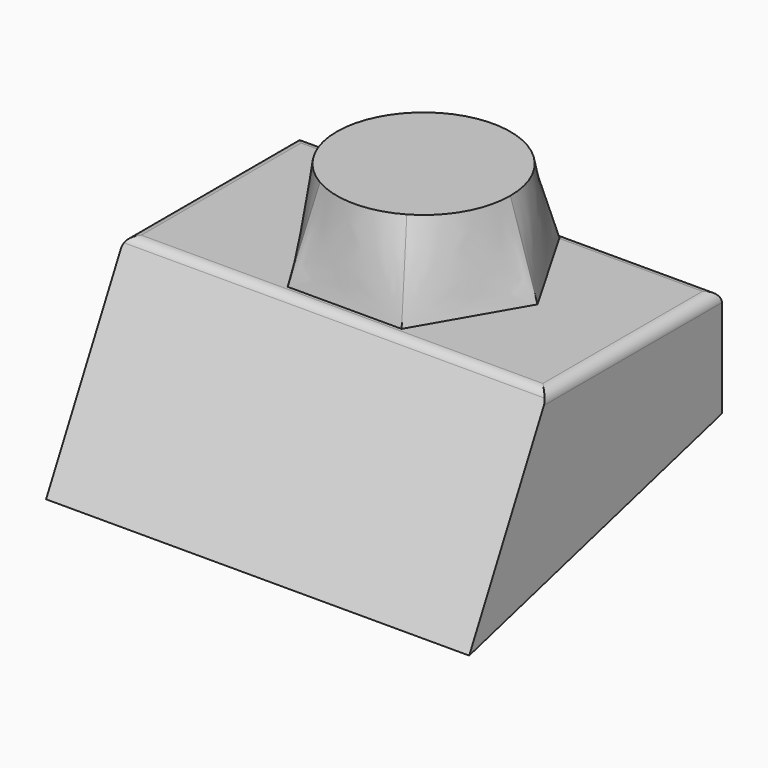
from build123d import *

# Parameters (mm, degrees)
F1_DEPTH = 9.75
F4_R     = 4
F6_R     = 0.5


with BuildPart() as f1:
    # F0 (on Right) → F1 (new body, symmetric)
    with BuildSketch(Plane.YZ):
        Polygon((4.5580229037, 8.9008104805), (0, 0), (14.5580229037, 3.9008104805), (14.5580229037, 8.9008104805), align=None)
    extrude(amount=F1_DEPTH, both=True)

    # F2 (on face) → F5 section 0
    with BuildSketch(Plane.XY.offset(8.9008104805)):
        Polygon((2.625, 14.1046562736), (-2.625, 14.1046562736), (-5.25, 9.5580229037), (-2.625, 5.0113895339), (2.625, 5.0113895339), (5.25, 9.5580229037), align=None)
    # F4 (on offset) → F5 section 1
    with BuildSketch(Plane.XY.offset(12.9008104805)):
        with Locations((0, 9.5580229037)):
            Circle(F4_R)
    loft()

    # F6
    f6_edges = [f1.edges().sort_by_distance(p)[0] for p in [
        (-9.75, 9.558023, 8.90081),
        (0, 4.558023, 8.90081),
        (9.75, 9.558023, 8.90081),
        (0, 14.558023, 8.90081),
    ]]
    fillet(f6_edges, radius=F6_R)


solid = f1.part
